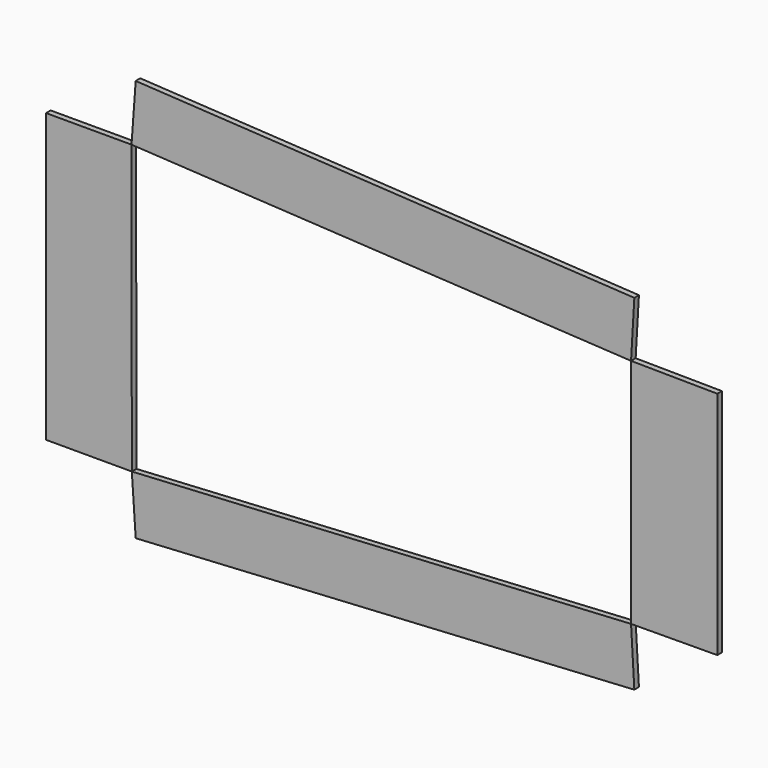
from build123d import *

# Parameters (mm, degrees)
F1_DEPTH = 3


with BuildPart() as f1:
    # F0 (on Front) → F1 (new body)
    with BuildSketch(Plane.XZ):
        Polygon((130.016466, 60.456667), (131.727896, 89.950198), (-128.272104, 104.950198), (-130.450651, 75), align=None)
        Polygon((-130.293563, -75), (-130.450651, 75), (-175, 75), (-175, -75), align=None)
        Polygon((131.727896, -89.950198), (130.016466, -60.285415), (-130.293563, -75), (-128.272104, -104.950198), align=None)
        Polygon((175, 60), (130.016466, 60.456667), (130.016466, -60.285415), (175, -60), align=None)
    extrude(amount=F1_DEPTH)


solid = f1.part
